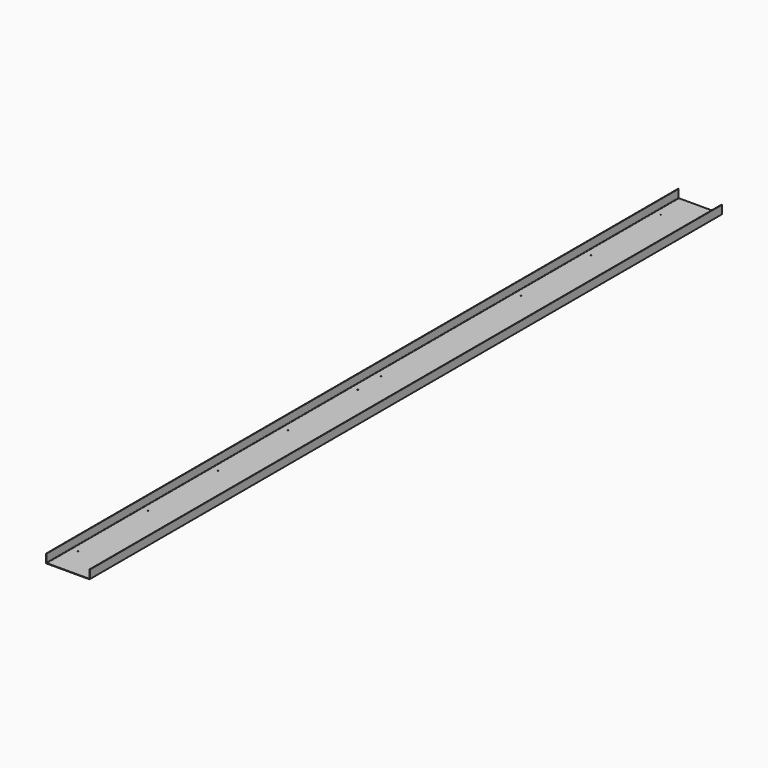
from build123d import *

# Parameters (mm, degrees)
F0_W     = 304.8
F0_H     = 5638.8
F1_DEPTH = 3.175
F2_W     = 3.175
F2_H     = 5638.8
F3_DEPTH = 57.15
F4_W     = 3.175
F4_H     = 5638.8
F5_DEPTH = 57.15
F6_R     = 3.175
F7_R     = 3.175
F8_DEPTH = 127
F11_D    = 6.35
F13_D    = 6.35


with BuildPart() as f1:
    # F0 (on Top) → F1 (new body)
    with BuildSketch(Plane.XY):
        Rectangle(F0_W, F0_H)
    extrude(amount=F1_DEPTH)

    # F2 (on face) → F3 (join)
    with BuildSketch(Plane.XY.offset(3.175)):
        with Locations((150.8125, 0)):
            Rectangle(F2_W, F2_H)
    extrude(amount=F3_DEPTH)

    # F4 (on face) → F5 (join)
    with BuildSketch(Plane.XY.offset(3.175)):
        with Locations((-150.8125, 0)):
            Rectangle(F4_W, F4_H)
    extrude(amount=F5_DEPTH)

    # F6
    f6_edges = [f1.edges().sort_by_distance(p)[0] for p in [
        (-149.225, 0, 3.175),
        (152.4, 0, 0),
    ]]
    fillet(f6_edges, radius=F6_R)

    # F7
    f7_edges = [f1.edges().sort_by_distance(p)[0] for p in [
        (149.225, 0, 3.175),
        (-152.4, 0, 0),
    ]]
    fillet(f7_edges, radius=F7_R)

    # F5_face (on face) → F8 (cut)
    with BuildSketch(Plane(origin=(0, -2819.4, 9.82396), x_dir=(1, 0, 0), z_dir=(0, -1, 0))):
        with BuildLine():
            Line((146.05, -6.64896), (-146.05, -6.64896))
            ThreePointArc((-146.05, -6.64896), (-148.295064, -5.719024), (-149.225, -3.47396))
            Line((-149.225, -3.47396), (-149.225, 50.50104))
            Line((-149.225, 50.50104), (-152.4, 50.50104))
            Line((-152.4, 50.50104), (-152.4, -6.64896))
            ThreePointArc((-152.4, -6.64896), (-151.470064, -8.894024), (-149.225, -9.82396))
            Line((-149.225, -9.82396), (149.225, -9.82396))
            ThreePointArc((149.225, -9.82396), (151.470064, -8.894024), (152.4, -6.64896))
            Line((152.4, -6.64896), (152.4, 50.50104))
            Line((152.4, 50.50104), (149.225, 50.50104))
            Line((149.225, 50.50104), (149.225, -3.47396))
            ThreePointArc((149.225, -3.47396), (148.295064, -5.719024), (146.05, -6.64896))
        make_face()
    extrude(amount=-F8_DEPTH, mode=Mode.SUBTRACT)

    # F11 (through all)
    with Locations(Plane.XY.offset(3.175)):
        with Locations((-101.6, 2603.500732), (101.6, 2603.500732), (101.6, 1993.900732), (-101.6, 1993.900732), (-101.6, 1384.300732), (101.6, 1384.300732), (101.6, 774.700732), (-101.6, 774.700732), (-101.6, 165.100732), (101.6, 165.100732)):
            Hole(F11_D / 2)

    # F13 (through all)
    with Locations(Plane.XY.offset(3.175)):
        with Locations((-101.6, -38.1), (101.6, -38.1), (101.6, -647.7), (-101.6, -647.7), (-101.6, -1257.3), (101.6, -1257.3), (101.6, -1866.9), (-101.6, -1866.9), (-101.6, -2476.5), (101.6, -2476.5)):
            Hole(F13_D / 2)


solid = f1.part
